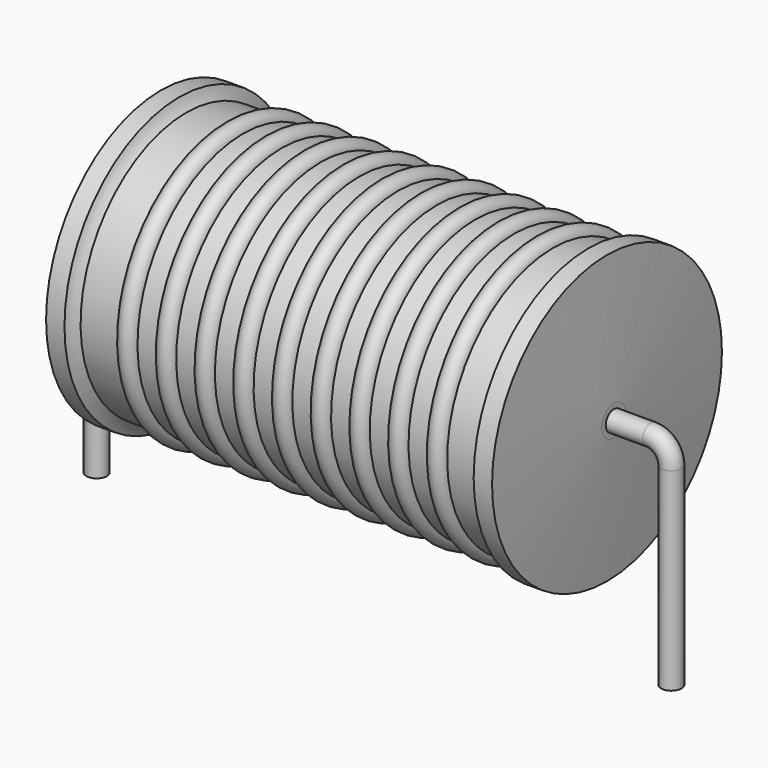
from build123d import *

# Parameters (mm, degrees)
SKETCH_R = 0.45


with BuildPart() as revolution:
    # Sketch002 → Revolution (revolve)
    with BuildSketch(Plane.XZ):
        with BuildLine():
            Line((2.8448, 12.8), (3.6576, 12.8))
            ThreePointArc((3.6576, 12.8), (3.78271, 12.529626), (3.9624, 12.292))
            Line((3.9624, 12.292), (21.4376, 12.292))
            ThreePointArc((21.4376, 12.292), (21.61729, 12.529626), (21.7424, 12.8))
            Line((21.7424, 12.8), (22.5552, 12.8))
            ThreePointArc((22.86, 7.125), (22.724275, 9.963396), (22.5552, 12.8))
            Line((22.86, 6.45), (22.86, 7.125))
            Line((2.54, 6.45), (22.86, 6.45))
            Line((2.54, 6.45), (2.54, 7.125))
            ThreePointArc((2.8448, 12.8), (2.675725, 9.963396), (2.54, 7.125))
        make_face()
    revolve(axis=Axis((2.54, 0, 6.45), (1, 0, 0)))


with BuildPart() as sweep_body:
    # Sweep: sweep along a path in Sketch001
    with BuildLine(Plane.XZ) as sweep_path:
        Line((0, -3), (0, 5.55))
        ThreePointArc((0, 5.55), (0.263601, 6.186393), (0.899993, 6.45))
        Line((0.899993, 6.45), (24.5, 6.45))
        ThreePointArc((24.5, 6.45), (25.136396, 6.186396), (25.4, 5.55))
        Line((25.4, 5.55), (25.4, -3))
    # Sketch → Sweep (sweep)
    with BuildSketch(Plane.XY.offset(-2)):
        Circle(SKETCH_R)
    sweep(path=sweep_path.line)


with BuildPart() as revolution001:
    # Sketch003 → Revolution001 (revolve)
    with BuildSketch(Plane.XZ):
        with BuildLine():
            ThreePointArc((6.486358, 12.21072), (6.058568, 12.638509), (5.630779, 12.21072))
            Line((4.7752, 12.21072), (5.630779, 12.21072))
            Line((4.7752, 12.21072), (4.7752, 10.94072))
            Line((4.7752, 10.94072), (21.0312, 10.94072))
            Line((21.0312, 10.94072), (21.0312, 12.21072))
            Line((20.175621, 12.21072), (21.0312, 12.21072))
            ThreePointArc((20.175621, 12.21072), (19.747832, 12.638509), (19.320042, 12.21072))
            Line((18.464463, 12.21072), (19.320042, 12.21072))
            ThreePointArc((18.464463, 12.21072), (18.036674, 12.638509), (17.608884, 12.21072))
            Line((16.753305, 12.21072), (17.608884, 12.21072))
            ThreePointArc((16.753305, 12.21072), (16.325516, 12.638509), (15.897726, 12.21072))
            Line((15.042147, 12.21072), (15.897726, 12.21072))
            ThreePointArc((15.042147, 12.21072), (14.614358, 12.638509), (14.186568, 12.21072))
            Line((13.330989, 12.21072), (14.186568, 12.21072))
            ThreePointArc((13.330989, 12.21072), (12.9032, 12.638509), (12.475411, 12.21072))
            Line((11.619832, 12.21072), (12.475411, 12.21072))
            ThreePointArc((11.619832, 12.21072), (11.192042, 12.638509), (10.764253, 12.21072))
            Line((9.908674, 12.21072), (10.764253, 12.21072))
            ThreePointArc((9.908674, 12.21072), (9.480884, 12.638509), (9.053095, 12.21072))
            Line((8.197516, 12.21072), (9.053095, 12.21072))
            ThreePointArc((8.197516, 12.21072), (7.769726, 12.638509), (7.341937, 12.21072))
            Line((6.486358, 12.21072), (7.341937, 12.21072))
        make_face()
    revolve(axis=Axis((3.048, 0, 6.45), (1, 0, 0)))


solid = Compound([revolution.part, sweep_body.part, revolution001.part])
